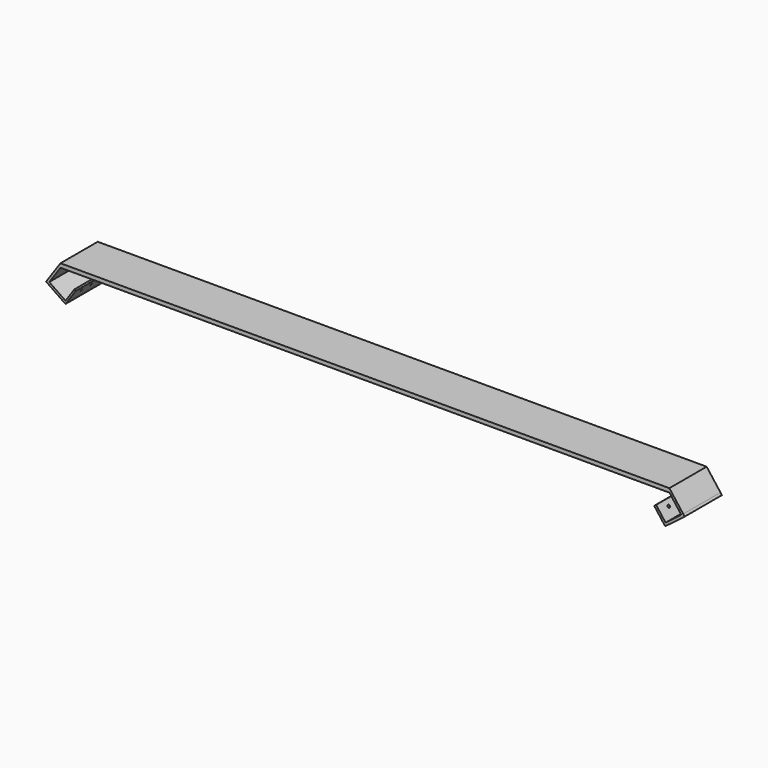
from build123d import *

# Parameters (mm, degrees)
F0_W     = 771.5
F0_H     = 5
F1_DEPTH = 29.5
F2_R     = 1.65
F3_DEPTH = 3
F4_R     = 1.65
F5_DEPTH = 25


with BuildPart() as f1:
    # F0 (on Front) → F1 (new body, symmetric)
    with BuildSketch(Plane.XZ):
        Rectangle(F0_W, F0_H)
        Polygon((403.2728842886, -20.5855475021), (385.75, 2.5), (385.75, -2.5), (400.8649778716, -22.4132479506), align=None)
        Polygon((-385.75, -2.5), (-385.75, 2.5), (-402.2831578173, -21.4661766194), (-399.9460936263, -23.0784092134), align=None)
        Polygon((405.0866816331, -22.9751372562), (403.2728842886, -20.5855475021), (400.8649778716, -22.4132479506), (380.951729921, -37.5282258222), (382.7655272655, -39.9178155762), align=None)
        Polygon((-399.9460936263, -23.0784092134), (-402.2831578173, -21.4661766194), (-403.9866890525, -23.935585725), (-381.0712156481, -39.7439119453), (-379.367684413, -37.2745028397), align=None)
        Polygon((382.7655272655, -39.9178155762), (380.951729921, -37.5282258222), (368.8597476237, -21.5976274617), (366.4701578696, -23.4114248063), (380.3759375115, -41.7316129208), align=None)
        Polygon((-368.0108095119, -20.811775469), (-379.367684413, -37.2745028397), (-381.0712156481, -39.7439119453), (-379.367684413, -40.9190994274), (-366.3072782767, -21.9869629511), align=None)
    extrude(amount=F1_DEPTH, both=True)

    # F2 (on face) → F3 (cut)
    with BuildSketch(Plane(origin=(-237.9157828305, 0, 164.1271049294), x_dir=(0, 1, 0), z_dir=(0.8231363685, 0, -0.5678437451))):
        with Locations((-15, -233.6035655756)):
            Circle(F2_R)
        with Locations((0, -233.6035655756)):
            Circle(F2_R)
        with Locations((15, -233.6035655756)):
            Circle(F2_R)
    extrude(amount=-F3_DEPTH, mode=Mode.SUBTRACT)

    # F4 (on face) → F5 (cut)
    with BuildSketch(Plane(origin=(221.236119488, 0, 167.9273546307), x_dir=(0, -1, 0), z_dir=(-0.796529918, 0, -0.6045991149))):
        with Locations((0, -247.7154333532)):
            Circle(F4_R)
        with Locations((-15, -247.7154333532)):
            Circle(F4_R)
        with Locations((15, -247.7154333532)):
            Circle(F4_R)
    extrude(amount=-F5_DEPTH, mode=Mode.SUBTRACT)


solid = f1.part
